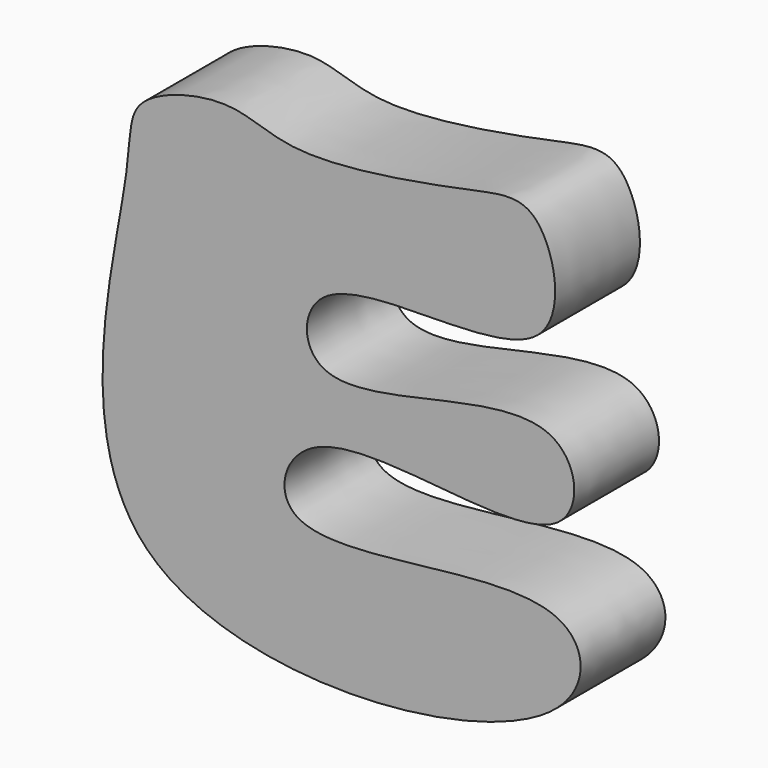
from build123d import *

# Parameters (mm, degrees)
F1_DEPTH = 25.4


with BuildPart() as f1:
    # F0 (on Front) → F1 (new body)
    with BuildSketch(Plane.XZ):
        with BuildLine():
            add(Edge.make_bspline(
                [(-40.7894104719, 7.8441174701), (-39.6155115104, 16.5735313313), (-41.1361861731, 25.4486549891), (-15.2562104541, 32.7589881165), (-1.0780040216, 22.9525136288), (41.4579092734, 30.86751909), (59.9018037273, 35.3599444228), (68.6003058767, -7.6689843668), (0.9090884115, 8.8421083262), (1.2334690149, -31.28381553), (65.8219874918, 0.2861702908), (70.6130585675, -46.2168005897), (1.0446268301, -22.4215015566), (-9.4301474946, -64.4799774309), (68.6674969724, -39.3184340425), (71.7751383204, -84.583878424), (-67.4582448993, -95.7463849487), (-43.323872031, -11.0027889414), (-40.7894104719, 7.8441174701)],
                knots=[0, 0, 0, 0, 0.0437203777, 0.0921854877, 0.1368994467, 0.2063199418, 0.2487292929, 0.3010341027, 0.3779154168, 0.4198510757, 0.498205941, 0.5436831322, 0.6252505839, 0.6688018262, 0.7528710857, 0.7996060051, 0.9056071943, 1, 1, 1, 1], degree=3))
        make_face()
    extrude(amount=F1_DEPTH)


solid = f1.part
